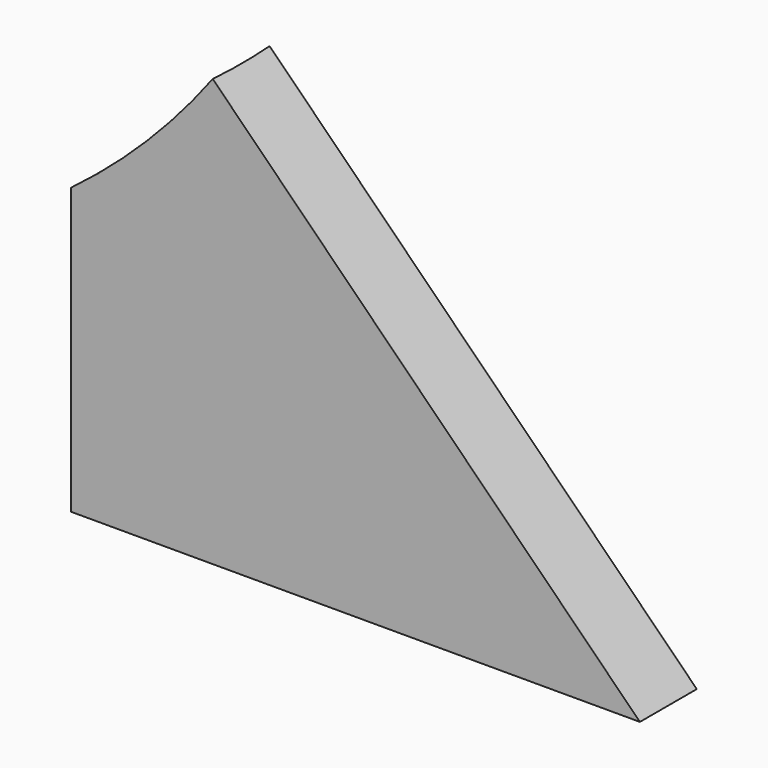
from build123d import *

# Parameters (mm, degrees)
F1_DEPTH = 635


with BuildPart() as f1:
    # F0 (on Front) → F1 (new body, symmetric)
    with BuildSketch(Plane.XZ):
        Polygon((0, 10160), (0, 0), (10160, 0), align=None)
    extrude(amount=F1_DEPTH, both=True)

    # F2 (on Front) → F3 (revolve, cut)
    with BuildSketch(Plane.XZ):
        with BuildLine():
            Line((5080, 15240), (-20320, 15240))
            ThreePointArc((-20320, 15240), (-7620, 2540), (5080, 15240))
        make_face()
    revolve(axis=Axis((3003.04884, 0, 15240), (1, 0, 0)), mode=Mode.SUBTRACT)


solid = f1.part
